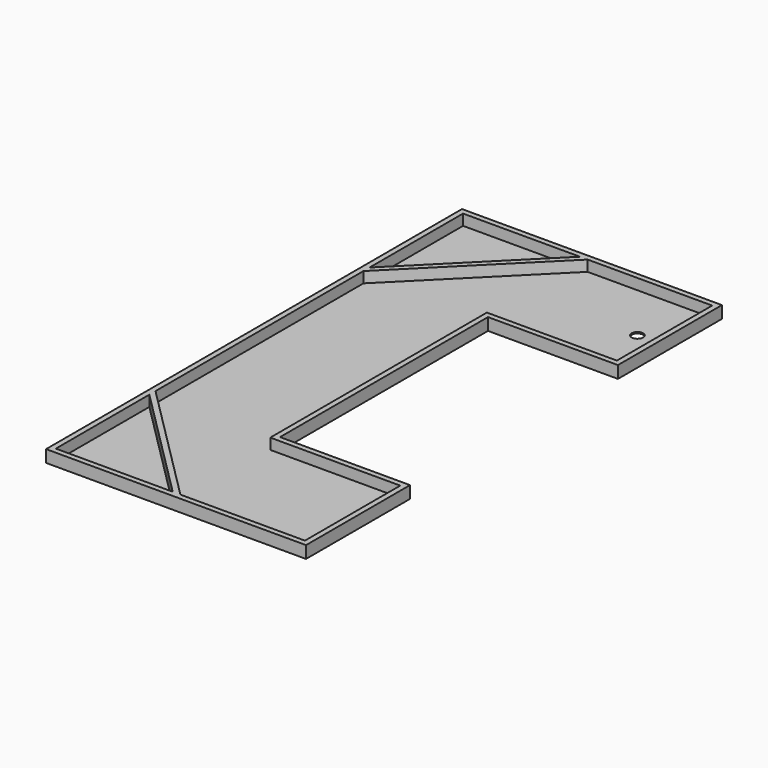
from build123d import *

# Parameters (mm, degrees)
F1_DEPTH = 114.3
F3_DEPTH = 101.6
F4_R     = 53.975
F5_DEPTH = 12.7
F7_DEPTH = 101.6


with BuildPart() as f1:
    # F0 (on Top) → F1 (new body)
    with BuildSketch(Plane.XY):
        Polygon((0, 4876.8), (0, 0), (2438.4, 0), (2438.4, 1219.2), (1219.2, 1219.2), (1219.2, 3657.6), (2438.4, 3657.6), (2438.4, 4876.8), align=None)
    extrude(amount=F1_DEPTH)

    # F2 (on face) → F3 (cut)
    with BuildSketch(Plane.XY.offset(114.3)):
        Polygon((2387.6, 4826), (50.8, 4826), (50.8, 50.8), (2387.6, 50.8), (2387.6, 1168.4), (1168.4, 1168.4), (1168.4, 3708.4), (2387.6, 3708.4), align=None)
    extrude(amount=-F3_DEPTH, mode=Mode.SUBTRACT)

    # F4 (on face) → F5 (cut)
    with BuildSketch(Plane.XY.offset(12.7)):
        with Locations((2133.6, 4267.2)):
            Circle(F4_R)
    extrude(amount=-F5_DEPTH, mode=Mode.SUBTRACT)

    # F6 (on face) → F7 (join)
    with BuildSketch(Plane.XY.offset(12.7)):
        Polygon((1147.357951, 4826), (50.8, 3729.442049), (50.8, 3657.6), (1219.2, 4826), align=None)
        Polygon((50.8, 1147.357951), (1147.357951, 50.8), (1219.2, 50.8), (50.8, 1219.2), align=None)
    extrude(amount=F7_DEPTH)


solid = f1.part
